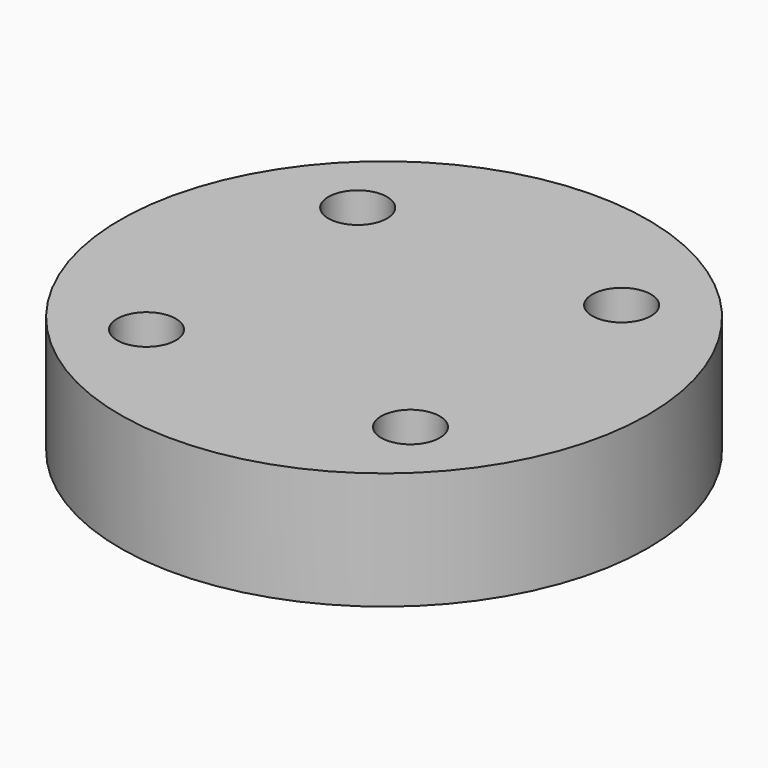
from build123d import *

# Parameters (mm, degrees)
CYLINDER970_R     = 1
CYLINDER970_DEPTH = 20
CYLINDER971_R     = 1
CYLINDER971_DEPTH = 20
CYLINDER965_R     = 1
CYLINDER965_DEPTH = 20
CYLINDER972_R     = 1
CYLINDER972_DEPTH = 20
CYLINDER978_R     = 9
CYLINDER978_DEPTH = 4


with BuildPart() as obj1:
    # Cylinder970 → Cylinder970 (new body)
    with BuildSketch(Plane(origin=(4.5, -4.5, -88), x_dir=(0, 1, 0), z_dir=(0, 0, 1))):
        Circle(CYLINDER970_R)
    extrude(amount=CYLINDER970_DEPTH)


with BuildPart() as obj2:
    # Cylinder971 → Cylinder971 (new body)
    with BuildSketch(Plane(origin=(4.5, 4.5, -88), x_dir=(-1, 0, 0), z_dir=(0, 0, 1))):
        Circle(CYLINDER971_R)
    extrude(amount=CYLINDER971_DEPTH)


with BuildPart() as obj3:
    # Cylinder965 → Cylinder965 (new body)
    with BuildSketch(Plane(origin=(-4.5, 4.5, -88), x_dir=(0, -1, 0), z_dir=(0, 0, 1))):
        Circle(CYLINDER965_R)
    extrude(amount=CYLINDER965_DEPTH)


with BuildPart() as compound808:
    # Cylinder972 → Cylinder972 (new body)
    with BuildSketch(Plane(origin=(-4.5, -4.5, -88), x_dir=(1, 0, 0), z_dir=(0, 0, 1))):
        Circle(CYLINDER972_R)
    extrude(amount=CYLINDER972_DEPTH)

    # Compound808: union obj1, obj2, obj3
    add(obj1.part)
    add(obj2.part)
    add(obj3.part)


with BuildPart() as compound808_1:
    # Compound808 placement: moved
    add(compound808.part.moved(Location((0, 0, 91))))


with BuildPart() as cut412:
    # Cylinder978 → Cylinder978 (new body)
    with BuildSketch(Plane.XY.offset(15)):
        Circle(CYLINDER978_R)
    extrude(amount=CYLINDER978_DEPTH)

    # Cut412: cut Compound808
    add(compound808_1.part, mode=Mode.SUBTRACT)


solid = cut412.part
